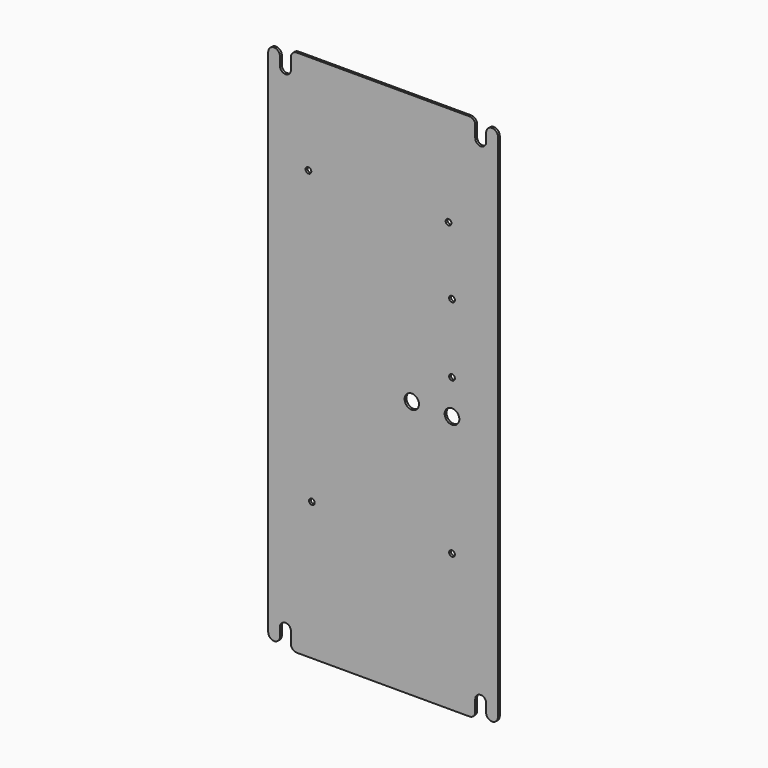
from build123d import *

# Parameters (mm, degrees)
F1_DEPTH = 2
F2_R     = 6.25
F3_DEPTH = 2.001
F4_R     = 2.5
F4_R_2   = 6.375
F5_DEPTH = 25


with BuildPart() as f1:
    # F0 (on Front) → F1 (new body)
    with BuildSketch(Plane.XZ):
        with BuildLine():
            ThreePointArc((-80.25, -225), (-78.785534, -228.535534), (-75.25, -230))
            Line((-75.25, -230), (75.25, -230))
            ThreePointArc((75.25, -230), (78.785534, -228.535534), (80.25, -225))
            Line((80.25, -225), (80.25, -215))
            ThreePointArc((80.25, -215), (85, -210.25), (89.75, -215))
            Line((89.75, -215), (89.75, -222.5))
            ThreePointArc((89.75, -222.5), (94.875, -227.49362), (100, -222.5))
            Line((100, -222.5), (100, 222.5))
            ThreePointArc((100, 222.5), (94.875, 227.49362), (89.75, 222.5))
            Line((89.75, 222.5), (89.75, 215))
            ThreePointArc((89.75, 215), (85, 210.25), (80.25, 215))
            Line((80.25, 215), (80.25, 225))
            ThreePointArc((80.25, 225), (78.785534, 228.535534), (75.25, 230))
            Line((75.25, 230), (-75.25, 230))
            ThreePointArc((-75.25, 230), (-78.785534, 228.535534), (-80.25, 225))
            Line((-80.25, 225), (-80.25, 215))
            ThreePointArc((-80.25, 215), (-85, 210.25), (-89.75, 215))
            Line((-89.75, 215), (-89.75, 222.5))
            ThreePointArc((-89.75, 222.5), (-94.875, 227.49362), (-100, 222.5))
            Line((-100, 222.5), (-100, -222.5))
            ThreePointArc((-100, -222.5), (-94.875, -227.49362), (-89.75, -222.5))
            Line((-89.75, -222.5), (-89.75, -215))
            ThreePointArc((-89.75, -215), (-85, -210.25), (-80.25, -215))
            Line((-80.25, -215), (-80.25, -225))
        make_face()
    extrude(amount=F1_DEPTH)

    # F2 (on face) → F3 (cut, through all)
    with BuildSketch(Plane.XZ.offset(2)):
        with Locations((25, -5)):
            Circle(F2_R)
    extrude(amount=-F3_DEPTH, mode=Mode.SUBTRACT)

    # F4 (on face) → F5 (cut)
    with BuildSketch(Plane.XZ.offset(2)):
        with Locations((-62, -110)):
            Circle(F4_R)
        with Locations((60, -110)):
            Circle(F4_R)
        with Locations((60, -5)):
            Circle(F4_R_2)
        with Locations((60, 25)):
            Circle(F4_R)
        with Locations((60, 85)):
            Circle(F4_R)
        with Locations((-65, 143)):
            Circle(F4_R)
        with Locations((57, 143)):
            Circle(F4_R)
    extrude(amount=-F5_DEPTH, mode=Mode.SUBTRACT)


solid = f1.part
